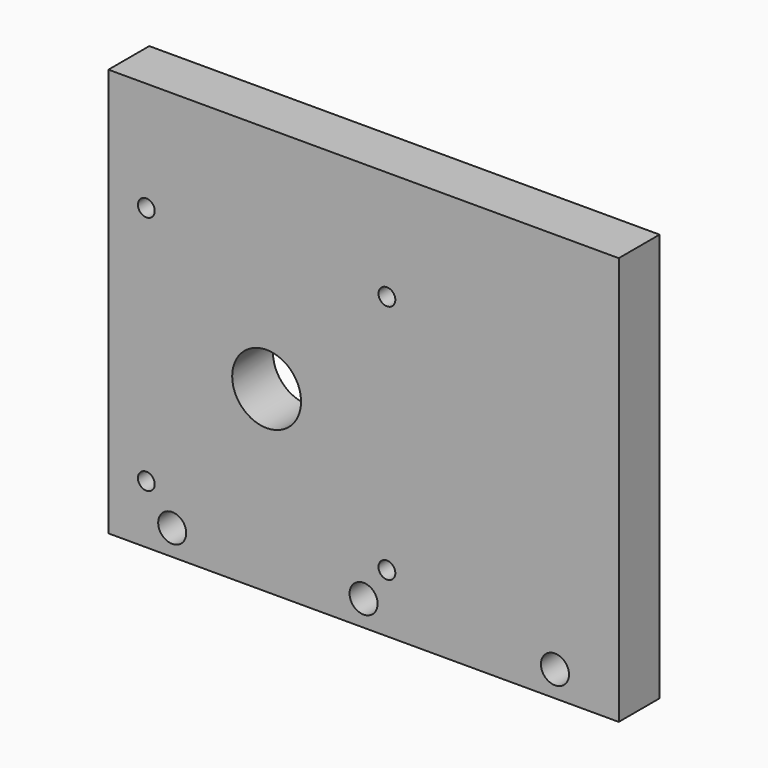
from build123d import *

# Parameters (mm, degrees)
F0_W     = 100
F0_H     = 80
F1_DEPTH = 10
F3_D     = 3.3
F4_D     = 13.5
F5_D     = 5.5
F5_DEPTH = 14.4
F5_TIP   = 1.6523667023


with BuildPart() as f1:
    # F0 (on Front) → F1 (new body)
    with BuildSketch(Plane.XZ):
        Rectangle(F0_W, F0_H)
    extrude(amount=F1_DEPTH)

    # F3 (through all)
    with Locations(Plane.XZ.offset(10)):
        with Locations((-42.57, 18.57), (4.57, 18.57), (-42.57, -28.57), (4.57, -28.57)):
            Hole(F3_D / 2)

    # F4 (through all)
    with Locations(Plane.XZ.offset(10)):
        with Locations((-19, -5)):
            Hole(F4_D / 2)

    # F5
    with Locations(Plane.XZ.offset(10)):
        with Locations((-37.5, -35), (0, -35), (37.5, -35)):
            Hole(F5_D / 2, depth=F5_DEPTH)
            with Locations((0, 0, -(F5_DEPTH + F5_TIP / 2))):  # 118° drill point
                Cone(0, F5_D / 2, F5_TIP, mode=Mode.SUBTRACT)


solid = f1.part
